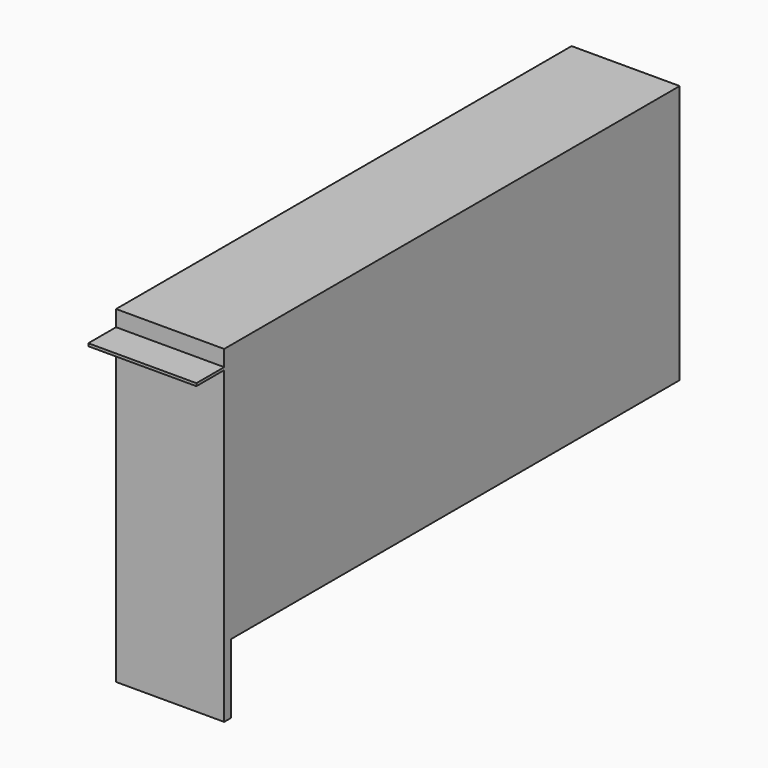
from build123d import *

# Parameters (mm, degrees)
F0_W     = 13
F0_H     = 1
F1_DEPTH = 40.5


with BuildPart() as f1:
    # F0 (on Right) → F1 (new body)
    with BuildSketch(Plane.YZ):
        with Locations((-109.04186, 35.850887)):
            Rectangle(F0_W, F0_H)
        Polygon((-102.54186, 36.350887), (-102.54186, 35.350887), (-102.54186, -80.649113), (-99.24186, -80.649113), (-99.24186, -54.649113), (110.75814, -54.649113), (110.75814, 42.350887), (-102.54186, 42.350887), align=None)
    extrude(amount=F1_DEPTH)


solid = f1.part
